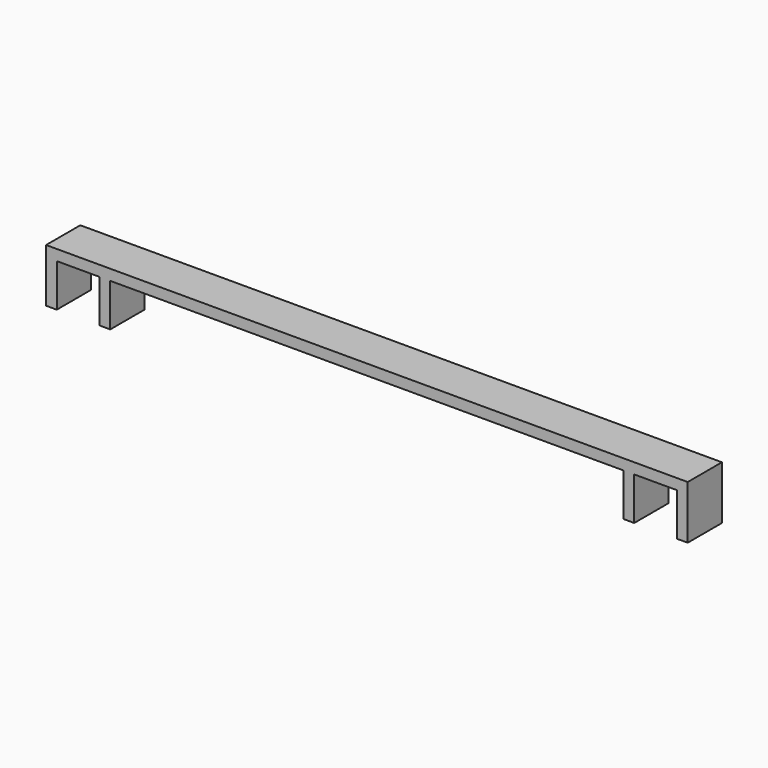
from build123d import *

# Parameters (mm, degrees)
F0_W     = 150
F0_H     = 2.5
F1_DEPTH = 5
F2_W     = 2.5
F2_H     = 10
F3_DEPTH = 10


with BuildPart() as f1:
    # F0 (on Front) → F1 (new body, symmetric)
    with BuildSketch(Plane.XZ):
        Rectangle(F0_W, F0_H)
    extrude(amount=F1_DEPTH, both=True)

    # F2 (on face) → F3 (join)
    with BuildSketch(Plane(origin=(0, 0, -1.25), x_dir=(1, 0, 0), z_dir=(0, 0, -1))):
        with Locations((-61.25, 0)):
            Rectangle(F2_W, F2_H)
        with Locations((-73.75, 0)):
            Rectangle(F2_W, F2_H)
        with Locations((61.25, 0)):
            Rectangle(F2_W, F2_H)
        with Locations((73.75, 0)):
            Rectangle(F2_W, F2_H)
    extrude(amount=F3_DEPTH)


solid = f1.part
